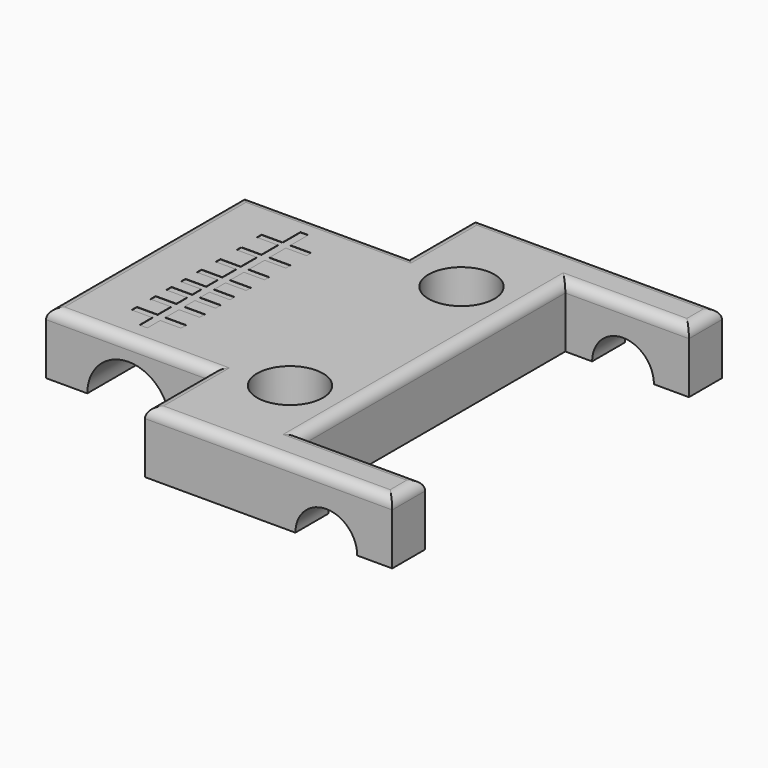
from build123d import *

# Parameters (mm, degrees)
F0_R     = 2.54
F1_DEPTH = 4.7625
F2_R     = 0.79375
F4_DEPTH = 25.401
F6_DEPTH = 31.751
F8_DEPTH = 0.0254


with BuildPart() as f1:
    # F0 (on Top) → F1 (new body)
    with BuildSketch(Plane.XY):
        Polygon((15.875, 12.7), (15.875, 15.875), (-3.175, 15.875), (-3.175, 9.525), (-15.875, 9.525), (-15.875, -9.525), (-3.175, -9.525), (-3.175, -15.875), (15.875, -15.875), (15.875, -12.7), (6.35, -12.7), (6.35, 12.7), align=None)
        with Locations((1.905, -8.255)):
            Circle(F0_R, mode=Mode.SUBTRACT)
        with Locations((1.905, 8.255)):
            Circle(F0_R, mode=Mode.SUBTRACT)
    extrude(amount=F1_DEPTH)

    # F2
    f2_edges = [f1.edges().sort_by_distance(p)[0] for p in [
        (-9.525, 9.525, 4.7625),
        (-9.525, -9.525, 4.7625),
        (6.35, 15.875, 4.7625),
        (11.1125, 12.7, 4.7625),
        (6.35, 0, 4.7625),
        (15.875, 14.2875, 4.7625),
        (11.1125, -12.7, 4.7625),
        (15.875, -14.2875, 4.7625),
        (6.35, -15.875, 4.7625),
        (-3.175, -12.7, 4.7625),
        (-15.875, 0, 4.7625),
        (-3.175, 12.7, 4.7625),
    ]]
    fillet(f2_edges, radius=F2_R)

    # F3 (on face) → F4 (cut, through all)
    with BuildSketch(Plane.XZ.offset(9.525)):
        with BuildLine():
            Line((-12.7, 0), (-6.35, 0))
            ThreePointArc((-6.35, 0), (-9.525, 3.175), (-12.7, 0))
        make_face()
    extrude(amount=-F4_DEPTH, mode=Mode.SUBTRACT)

    # F5 (on face) → F6 (cut, through all)
    with BuildSketch(Plane.XZ.offset(15.875)):
        with BuildLine():
            Line((8.41375, 0), (13.17625, 0))
            ThreePointArc((13.17625, 0), (10.795, 2.38125), (8.41375, 0))
        make_face()
    extrude(amount=-F6_DEPTH, mode=Mode.SUBTRACT)

    # F7 (on face) → F8 (cut)
    with BuildSketch(Plane.XY.offset(4.7625)):
        Polygon((-10.099244, -6.511544), (-10.099244, -7.751831), (-9.488716, -7.751831), (-9.488716, -6.511544), (-7.894327, -6.511544), (-7.894327, -6.002771), (-9.488716, -6.002771), (-9.488716, -4.706035), (-7.894327, -4.706035), (-7.894327, -4.197262), (-9.488716, -4.197262), (-9.488716, -3.179715), (-7.894327, -3.179715), (-7.894327, -2.670942), (-9.488716, -2.670942), (-9.488716, -1.780588), (-7.894327, -1.780588), (-7.894327, -1.322692), (-9.488716, -1.322692), (-9.488716, -0.228829), (-7.894327, -0.228829), (-7.894327, 0.228829), (-9.488716, 0.228829), (-9.488716, 1.545488), (-7.894327, 1.545488), (-7.894327, 2.003385), (-9.488716, 2.003385), (-9.488716, 3.542424), (-7.856169, 3.542424), (-7.856169, 4.000321), (-9.488716, 4.000321), (-9.488716, 5.580434), (-7.892068, 5.580434), (-7.892068, 6.035207), (-9.488716, 6.035207), (-9.488716, 7.751831), (-10.099244, 7.751831), (-10.099244, 6.035207), (-11.719226, 6.035207), (-11.719226, 5.580434), (-10.099244, 5.580434), (-10.099244, 4.000321), (-11.646531, 4.000321), (-11.646531, 3.542424), (-10.099244, 3.542424), (-10.099244, 2.003385), (-11.659251, 2.003385), (-11.659251, 1.545488), (-10.099244, 1.545488), (-10.099244, 0.228829), (-11.693633, 0.228829), (-11.693633, -0.228829), (-10.099244, -0.228829), (-10.099244, -1.322692), (-11.693633, -1.322692), (-11.693633, -1.780588), (-10.099244, -1.780588), (-10.099244, -2.670942), (-11.693633, -2.670942), (-11.693633, -3.179715), (-10.099244, -3.179715), (-10.099244, -4.197262), (-11.693633, -4.197262), (-11.693633, -4.706035), (-10.099244, -4.706035), (-10.099244, -6.002771), (-11.693633, -6.002771), (-11.693633, -6.511544), align=None)
    extrude(amount=-F8_DEPTH, mode=Mode.SUBTRACT)


solid = f1.part
